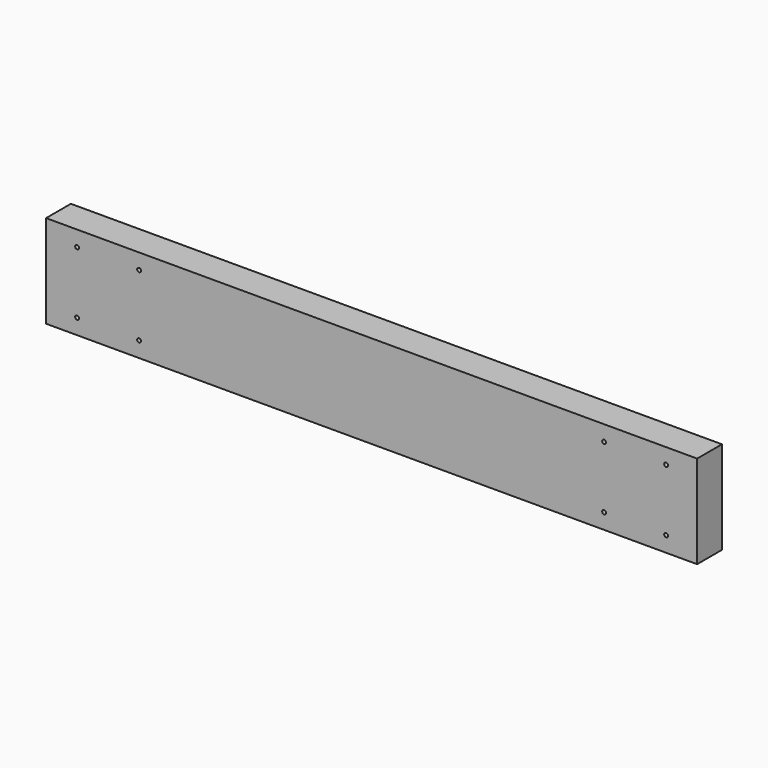
from build123d import *

# Parameters (mm, degrees)
F0_W     = 1066.8
F0_H     = 152.4
F0_R     = 3.175
F1_DEPTH = 50.8


with BuildPart() as f1:
    # F0 (on Front) → F1 (new body)
    with BuildSketch(Plane.XZ):
        with Locations((418.658001, 76.2)):
            Rectangle(F0_W, F0_H)
        with Locations((-63.941999, 25.4)):
            Circle(F0_R, mode=Mode.SUBTRACT)
        with Locations((37.658001, 25.4)):
            Circle(F0_R, mode=Mode.SUBTRACT)
        with Locations((799.658001, 25.4)):
            Circle(F0_R, mode=Mode.SUBTRACT)
        with Locations((901.258001, 25.4)):
            Circle(F0_R, mode=Mode.SUBTRACT)
        with Locations((-63.941999, 127)):
            Circle(F0_R, mode=Mode.SUBTRACT)
        with Locations((37.658001, 127)):
            Circle(F0_R, mode=Mode.SUBTRACT)
        with Locations((799.658001, 127)):
            Circle(F0_R, mode=Mode.SUBTRACT)
        with Locations((901.258001, 127)):
            Circle(F0_R, mode=Mode.SUBTRACT)
    extrude(amount=F1_DEPTH)


solid = f1.part
